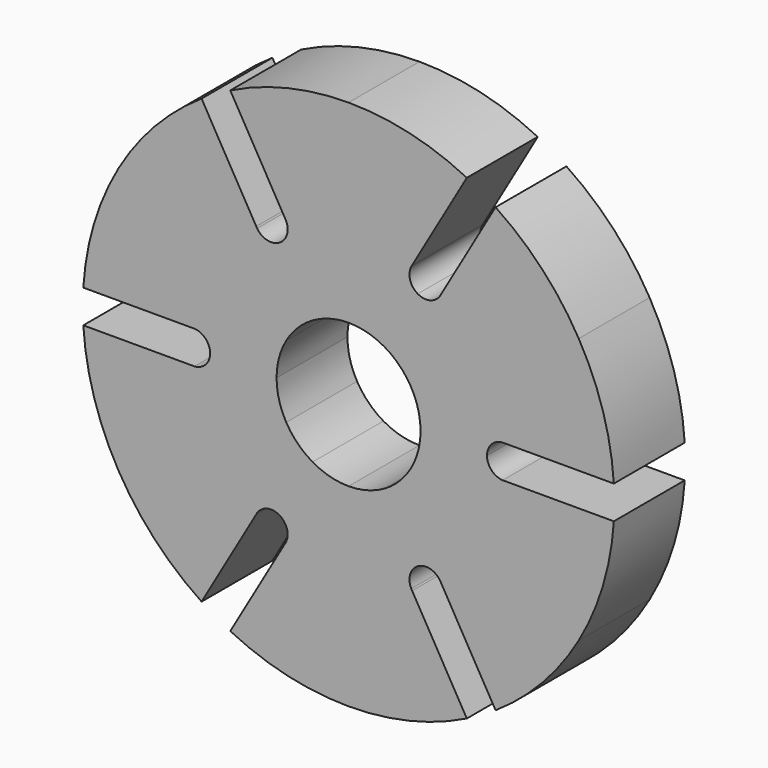
from build123d import *

# Parameters (mm, degrees)
F1_DEPTH = 25.4


with BuildPart() as f1:
    # F0 (on Front) → F1 (new body)
    with BuildSketch(Plane.XZ):
        with BuildLine():
            Line((-18.234044, -41.093612), (-33.907204, -68.240322))
            ThreePointArc((-33.907204, -68.240322), (-17.414469, -74.183396), (0, -76.2))
            Line((0, -76.2), (0, -44.45))
            ThreePointArc((0, -44.45), (-9.187875, -43.490061), (-17.97891, -40.651707))
            ThreePointArc((-17.97891, -40.651707), (-18.100554, -40.876079), (-18.234044, -41.093612))
        make_face()
        with BuildLine():
            Line((0, -44.45), (0, -76.2))
            ThreePointArc((0, -76.2), (17.414469, -74.183396), (33.907204, -68.240322))
            Line((33.907204, -68.240322), (18.234044, -41.093612))
            ThreePointArc((18.234044, -41.093612), (18.100554, -40.876079), (17.97891, -40.651707))
            ThreePointArc((17.97891, -40.651707), (9.187875, -43.490061), (0, -44.45))
        make_face()
        with BuildLine():
            Line((-17.97891, -40.651707), (-18.234044, -41.093612))
            ThreePointArc((-18.234044, -41.093612), (-18.100554, -40.876079), (-17.97891, -40.651707))
        make_face()
        with BuildLine():
            Line((0, -20.6375), (0, -44.45))
            ThreePointArc((0, -44.45), (9.187875, -43.490061), (17.97891, -40.651707))
            ThreePointArc((17.97891, -40.651707), (17.659459, -37.139382), (19.84375, -34.370383))
            Line((19.84375, -34.370383), (10.31875, -17.872599))
            ThreePointArc((10.31875, -17.872599), (5.341378, -19.934294), (0, -20.6375))
        make_face()
        with BuildLine():
            ThreePointArc((-17.97891, -40.651707), (-9.187875, -43.490061), (0, -44.45))
            Line((0, -44.45), (0, -20.6375))
            ThreePointArc((0, -20.6375), (-5.341378, -19.934294), (-10.31875, -17.872599))
            Line((-10.31875, -17.872599), (-19.84375, -34.370383))
            ThreePointArc((-19.84375, -34.370383), (-17.659459, -37.139382), (-17.97891, -40.651707))
        make_face()
        with BuildLine():
            ThreePointArc((17.97891, -40.651707), (18.100554, -40.876079), (18.234044, -41.093612))
            Line((18.234044, -41.093612), (17.97891, -40.651707))
        make_face()
        with BuildLine():
            ThreePointArc((-26.215956, -35.896046), (-23.333919, -33.863231), (-19.84375, -34.370383))
            Line((-19.84375, -34.370383), (-10.31875, -17.872599))
            ThreePointArc((-10.31875, -17.872599), (-14.592916, -14.592916), (-17.872599, -10.31875))
            Line((-17.872599, -10.31875), (-38.494829, -22.225))
            ThreePointArc((-38.494829, -22.225), (-33.06956, -29.701964), (-26.215956, -35.896046))
        make_face()
        with BuildLine():
            Line((10.31875, -17.872599), (19.84375, -34.370383))
            ThreePointArc((19.84375, -34.370383), (23.333919, -33.863231), (26.215956, -35.896046))
            ThreePointArc((26.215956, -35.896046), (33.06956, -29.701964), (38.494829, -22.225))
            Line((38.494829, -22.225), (17.872599, -10.31875))
            ThreePointArc((17.872599, -10.31875), (14.592916, -14.592916), (10.31875, -17.872599))
        make_face()
        with BuildLine():
            Line((-26.47109, -36.337951), (-26.215956, -35.896046))
            ThreePointArc((-26.215956, -35.896046), (-26.349446, -36.113579), (-26.47109, -36.337951))
        make_face()
        with BuildLine():
            ThreePointArc((-26.47109, -36.337951), (-26.349446, -36.113579), (-26.215956, -35.896046))
            ThreePointArc((-26.215956, -35.896046), (-33.06956, -29.701964), (-38.494829, -22.225))
            Line((-38.494829, -22.225), (-65.991136, -38.1))
            ThreePointArc((-65.991136, -38.1), (-55.537471, -52.173071), (-42.14425, -63.484661))
            Line((-42.14425, -63.484661), (-26.47109, -36.337951))
        make_face()
        with BuildLine():
            ThreePointArc((38.494829, -22.225), (33.06956, -29.701964), (26.215956, -35.896046))
            ThreePointArc((26.215956, -35.896046), (26.349446, -36.113579), (26.47109, -36.337951))
            Line((26.47109, -36.337951), (42.14425, -63.484661))
            ThreePointArc((42.14425, -63.484661), (55.537471, -52.173071), (65.991136, -38.1))
            Line((65.991136, -38.1), (38.494829, -22.225))
        make_face()
        with BuildLine():
            ThreePointArc((26.47109, -36.337951), (26.349446, -36.113579), (26.215956, -35.896046))
            Line((26.215956, -35.896046), (26.47109, -36.337951))
        make_face()
        with BuildLine():
            Line((-38.494829, -22.225), (-17.872599, -10.31875))
            ThreePointArc((-17.872599, -10.31875), (-19.934294, -5.341378), (-20.6375, 0))
            Line((-20.6375, 0), (-39.6875, 0))
            ThreePointArc((-39.6875, 0), (-40.993377, -3.276151), (-44.194866, -4.755661))
            ThreePointArc((-44.194866, -4.755661), (-42.257436, -13.788097), (-38.494829, -22.225))
        make_face()
        with BuildLine():
            ThreePointArc((20.6375, 0), (19.934294, -5.341378), (17.872599, -10.31875))
            Line((17.872599, -10.31875), (38.494829, -22.225))
            ThreePointArc((38.494829, -22.225), (42.257436, -13.788097), (44.194866, -4.755661))
            ThreePointArc((44.194866, -4.755661), (40.993377, -3.276151), (39.6875, 0))
            Line((39.6875, 0), (20.6375, 0))
        make_face()
        with BuildLine():
            Line((0, 44.45), (0, 20.6375))
            ThreePointArc((0, 20.6375), (5.341378, 19.934294), (10.31875, 17.872599))
            Line((10.31875, 17.872599), (19.84375, 34.370383))
            ThreePointArc((19.84375, 34.370383), (17.659459, 37.139382), (17.97891, 40.651707))
            ThreePointArc((17.97891, 40.651707), (9.187875, 43.490061), (0, 44.45))
        make_face()
        with BuildLine():
            ThreePointArc((-10.31875, 17.872599), (-5.341378, 19.934294), (0, 20.6375))
            Line((0, 20.6375), (0, 44.45))
            ThreePointArc((0, 44.45), (-9.187875, 43.490061), (-17.97891, 40.651707))
            ThreePointArc((-17.97891, 40.651707), (-17.659459, 37.139382), (-19.84375, 34.370383))
            Line((-19.84375, 34.370383), (-10.31875, 17.872599))
        make_face()
        with BuildLine():
            ThreePointArc((17.872599, 10.31875), (19.934294, 5.341378), (20.6375, 0))
            Line((20.6375, 0), (39.6875, 0))
            ThreePointArc((39.6875, 0), (40.993377, 3.276151), (44.194866, 4.755661))
            ThreePointArc((44.194866, 4.755661), (42.257436, 13.788097), (38.494829, 22.225))
            Line((38.494829, 22.225), (17.872599, 10.31875))
        make_face()
        with BuildLine():
            Line((-39.6875, 0), (-20.6375, 0))
            ThreePointArc((-20.6375, 0), (-19.934294, 5.341378), (-17.872599, 10.31875))
            Line((-17.872599, 10.31875), (-38.494829, 22.225))
            ThreePointArc((-38.494829, 22.225), (-42.257436, 13.788097), (-44.194866, 4.755661))
            ThreePointArc((-44.194866, 4.755661), (-40.993377, 3.276151), (-39.6875, 0))
        make_face()
        with BuildLine():
            ThreePointArc((-17.872599, 10.31875), (-14.592916, 14.592916), (-10.31875, 17.872599))
            Line((-10.31875, 17.872599), (-19.84375, 34.370383))
            ThreePointArc((-19.84375, 34.370383), (-23.333919, 33.863231), (-26.215956, 35.896046))
            ThreePointArc((-26.215956, 35.896046), (-33.06956, 29.701964), (-38.494829, 22.225))
            Line((-38.494829, 22.225), (-17.872599, 10.31875))
        make_face()
        with BuildLine():
            Line((19.84375, 34.370383), (10.31875, 17.872599))
            ThreePointArc((10.31875, 17.872599), (14.592916, 14.592916), (17.872599, 10.31875))
            Line((17.872599, 10.31875), (38.494829, 22.225))
            ThreePointArc((38.494829, 22.225), (33.06956, 29.701964), (26.215956, 35.896046))
            ThreePointArc((26.215956, 35.896046), (23.333919, 33.863231), (19.84375, 34.370383))
        make_face()
        with BuildLine():
            Line((-65.991136, -38.1), (-38.494829, -22.225))
            ThreePointArc((-38.494829, -22.225), (-42.257436, -13.788097), (-44.194866, -4.755661))
            ThreePointArc((-44.194866, -4.755661), (-44.45, -4.7625), (-44.705134, -4.755661))
            Line((-44.705134, -4.755661), (-76.051454, -4.755661))
            ThreePointArc((-76.051454, -4.755661), (-72.95194, -22.010325), (-65.991136, -38.1))
        make_face()
        with BuildLine():
            ThreePointArc((44.194866, -4.755661), (42.257436, -13.788097), (38.494829, -22.225))
            Line((38.494829, -22.225), (65.991136, -38.1))
            ThreePointArc((65.991136, -38.1), (72.95194, -22.010325), (76.051454, -4.755661))
            Line((76.051454, -4.755661), (44.705134, -4.755661))
            ThreePointArc((44.705134, -4.755661), (44.45, -4.7625), (44.194866, -4.755661))
        make_face()
        with BuildLine():
            ThreePointArc((-17.97891, 40.651707), (-9.187875, 43.490061), (0, 44.45))
            Line((0, 44.45), (0, 76.2))
            ThreePointArc((0, 76.2), (-17.414469, 74.183396), (-33.907204, 68.240322))
            Line((-33.907204, 68.240322), (-18.234044, 41.093612))
            ThreePointArc((-18.234044, 41.093612), (-18.100554, 40.876079), (-17.97891, 40.651707))
        make_face()
        with BuildLine():
            Line((0, 76.2), (0, 44.45))
            ThreePointArc((0, 44.45), (9.187875, 43.490061), (17.97891, 40.651707))
            ThreePointArc((17.97891, 40.651707), (18.100554, 40.876079), (18.234044, 41.093612))
            Line((18.234044, 41.093612), (33.907204, 68.240322))
            ThreePointArc((33.907204, 68.240322), (17.414469, 74.183396), (0, 76.2))
        make_face()
        with BuildLine():
            ThreePointArc((-44.194866, 4.755661), (-42.257436, 13.788097), (-38.494829, 22.225))
            Line((-38.494829, 22.225), (-65.991136, 38.1))
            ThreePointArc((-65.991136, 38.1), (-72.95194, 22.010325), (-76.051454, 4.755661))
            Line((-76.051454, 4.755661), (-44.705134, 4.755661))
            ThreePointArc((-44.705134, 4.755661), (-44.45, 4.7625), (-44.194866, 4.755661))
        make_face()
        with BuildLine():
            Line((-65.991136, 38.1), (-38.494829, 22.225))
            ThreePointArc((-38.494829, 22.225), (-33.06956, 29.701964), (-26.215956, 35.896046))
            ThreePointArc((-26.215956, 35.896046), (-26.349446, 36.113579), (-26.47109, 36.337951))
            Line((-26.47109, 36.337951), (-42.14425, 63.484661))
            ThreePointArc((-42.14425, 63.484661), (-55.537471, 52.173071), (-65.991136, 38.1))
        make_face()
        with BuildLine():
            ThreePointArc((26.215956, 35.896046), (33.06956, 29.701964), (38.494829, 22.225))
            Line((38.494829, 22.225), (65.991136, 38.1))
            ThreePointArc((65.991136, 38.1), (55.537471, 52.173071), (42.14425, 63.484661))
            Line((42.14425, 63.484661), (26.47109, 36.337951))
            ThreePointArc((26.47109, 36.337951), (26.349446, 36.113579), (26.215956, 35.896046))
        make_face()
        with BuildLine():
            Line((65.991136, 38.1), (38.494829, 22.225))
            ThreePointArc((38.494829, 22.225), (42.257436, 13.788097), (44.194866, 4.755661))
            ThreePointArc((44.194866, 4.755661), (44.45, 4.7625), (44.705134, 4.755661))
            Line((44.705134, 4.755661), (76.051454, 4.755661))
            ThreePointArc((76.051454, 4.755661), (72.95194, 22.010325), (65.991136, 38.1))
        make_face()
        with BuildLine():
            ThreePointArc((-44.705134, -4.755661), (-44.45, -4.7625), (-44.194866, -4.755661))
            Line((-44.194866, -4.755661), (-44.705134, -4.755661))
        make_face()
        with BuildLine():
            Line((44.705134, -4.755661), (44.194866, -4.755661))
            ThreePointArc((44.194866, -4.755661), (44.45, -4.7625), (44.705134, -4.755661))
        make_face()
        with BuildLine():
            ThreePointArc((18.234044, 41.093612), (18.100554, 40.876079), (17.97891, 40.651707))
            Line((17.97891, 40.651707), (18.234044, 41.093612))
        make_face()
        with BuildLine():
            Line((-18.234044, 41.093612), (-17.97891, 40.651707))
            ThreePointArc((-17.97891, 40.651707), (-18.100554, 40.876079), (-18.234044, 41.093612))
        make_face()
        with BuildLine():
            ThreePointArc((44.705134, 4.755661), (44.45, 4.7625), (44.194866, 4.755661))
            Line((44.194866, 4.755661), (44.705134, 4.755661))
        make_face()
        with BuildLine():
            Line((-44.705134, 4.755661), (-44.194866, 4.755661))
            ThreePointArc((-44.194866, 4.755661), (-44.45, 4.7625), (-44.705134, 4.755661))
        make_face()
        with BuildLine():
            ThreePointArc((-26.47109, 36.337951), (-26.349446, 36.113579), (-26.215956, 35.896046))
            Line((-26.215956, 35.896046), (-26.47109, 36.337951))
        make_face()
        with BuildLine():
            Line((26.47109, 36.337951), (26.215956, 35.896046))
            ThreePointArc((26.215956, 35.896046), (26.349446, 36.113579), (26.47109, 36.337951))
        make_face()
    extrude(amount=F1_DEPTH)


solid = f1.part
